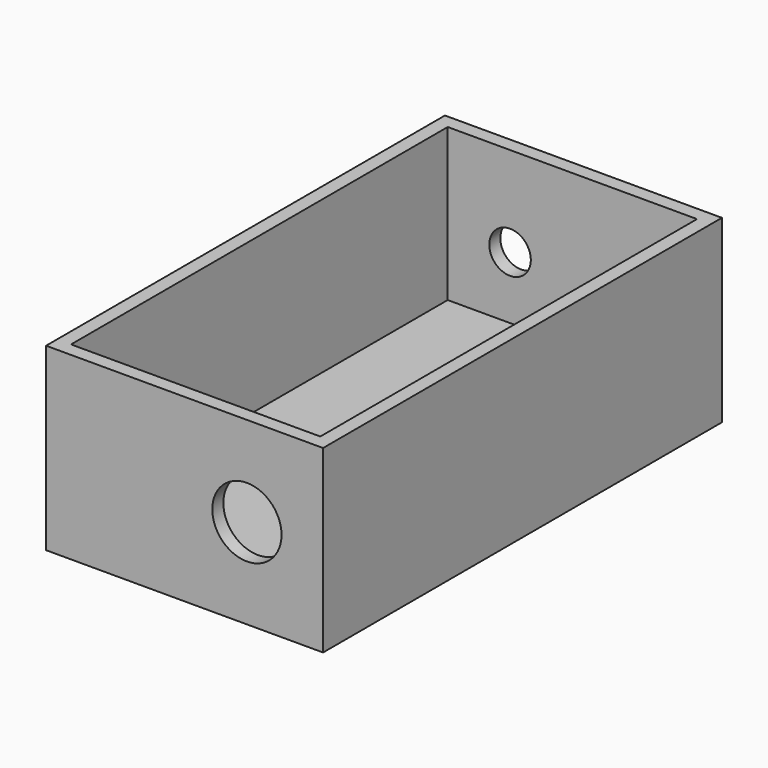
from build123d import *

# Parameters (mm, degrees)
F0_W     = 40
F0_H     = 72
F1_DEPTH = 26
F2_W     = 36
F2_H     = 68
F3_DEPTH = 22
F4_R     = 5
F5_DEPTH = 25
F6_R     = 3
F7_DEPTH = 25


with BuildPart() as f1:
    # F0 (on Top) → F1 (new body)
    with BuildSketch(Plane.XY):
        Rectangle(F0_W, F0_H)
    extrude(amount=F1_DEPTH)

    # F2 (on face) → F3 (cut)
    with BuildSketch(Plane.XY.offset(26)):
        Rectangle(F2_W, F2_H)
    extrude(amount=-F3_DEPTH, mode=Mode.SUBTRACT)

    # F4 (on face) → F5 (cut)
    with BuildSketch(Plane.XZ.offset(36)):
        with Locations((9, 13)):
            Circle(F4_R)
    extrude(amount=-F5_DEPTH, mode=Mode.SUBTRACT)

    # F6 (on face) → F7 (cut)
    with BuildSketch(Plane(origin=(0, 36, 0), x_dir=(-1, 0, 0), z_dir=(0, 1, 0))):
        with Locations((-9, 13)):
            Circle(F6_R)
        with Locations((9, 13)):
            Circle(F6_R)
    extrude(amount=-F7_DEPTH, mode=Mode.SUBTRACT)


solid = f1.part
